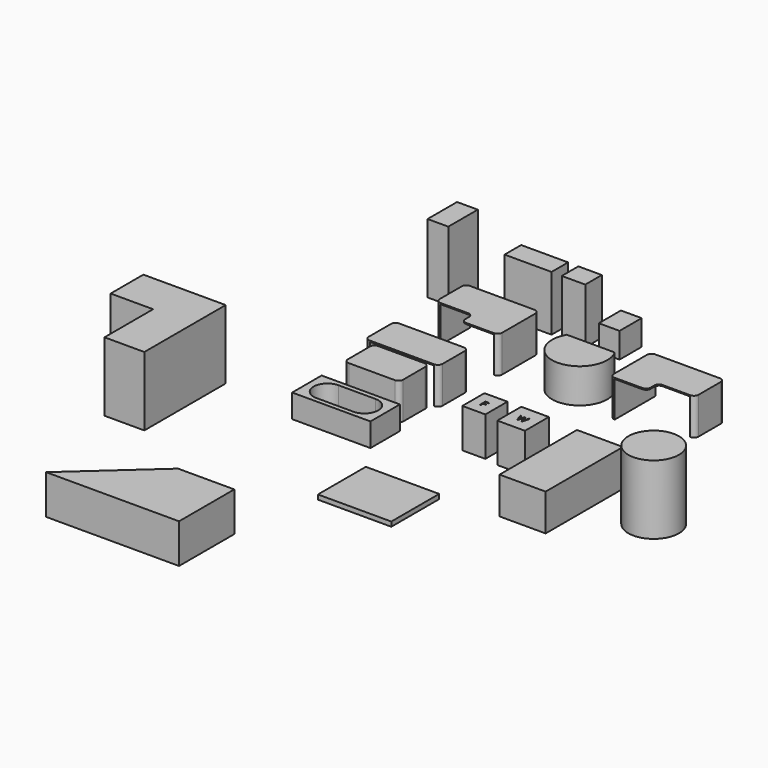
from build123d import *

# Parameters (mm, degrees)
F0_W      = 500
F0_H      = 600
F1_DEPTH  = 850
F2_W      = 600
F2_H      = 650
F3_DEPTH  = 850
F4_W      = 1000
F4_H      = 2100
F5_DEPTH  = 800
F6_R      = 550
F7_DEPTH  = 1500
F8_W      = 1700
F8_H      = 800
F9_DEPTH  = 510
F11_DEPTH = 855
F12_W     = 1593.5931801796
F12_H     = 1299.8950481415
F13_DEPTH = 100
F15_DEPTH = 800
F17_DEPTH = 800
F18_W     = 1020
F18_H     = 450
F19_DEPTH = 1200
F21_DEPTH = 750
F23_DEPTH = 800
F24_W     = 510
F24_H     = 450
F25_DEPTH = 1200
F26_W     = 450
F26_H     = 600
F27_DEPTH = 550
F28_W     = 1400
F28_H     = 800
F29_DEPTH = 775
F31_DEPTH = 775
F33_W     = 450
F33_H     = 800
F34_DEPTH = 1500
F36_DEPTH = 1500


with BuildPart() as f1:
    # F0 (on Top) → F1 (new body)
    with BuildSketch(Plane.XY):
        with Locations((250, -300)):
            Rectangle(F0_W, F0_H)
        Polygon((223.5717567124, -319.4969488541), (223.5717567124, -386.5047097206), (205.3530567533, -386.5047097206), (205.3530567533, -229.7415456657), (292.741058252, -229.7415456657), (292.741058252, -245.9359456293), (223.5717567124, -245.9359456293), (223.5717567124, -303.3025488904), (288.5552175835, -303.3025488904), (288.5552175835, -319.4969488541), align=None, mode=Mode.SUBTRACT)
    extrude(amount=F1_DEPTH)


with BuildPart() as f3:
    # F2 (on Top) → F3 (new body)
    with BuildSketch(Plane.XY):
        with Locations((1098.6456545318, -325)):
            Rectangle(F2_W, F2_H)
        with BuildLine():
            Line((1192.4111198944, -258.8157182715), (1150.7452339348, -414.6024882793))
            Line((1150.7452339348, -414.6024882793), (1132.8445873482, -414.6024882793))
            Line((1132.8445873482, -414.6024882793), (1101.4076422952, -310.3013875015))
            add(Edge.make_bspline(
                [(1101.4076422952, -310.3013875015), (1099.1572752957, -303.345707685), (1096.3954612509, -292.8098985511)],
                knots=[0, 0, 0, 1, 1, 1], degree=2))
            add(Edge.make_bspline(
                [(1096.3954612509, -292.8098985511), (1093.6336472061, -282.2740894173), (1093.5313577971, -280.1260118269)],
                knots=[0, 0, 0, 1, 1, 1], degree=2))
            add(Edge.make_bspline(
                [(1093.5313577971, -280.1260118269), (1091.1787013885, -294.2078538084), (1086.0642309352, -310.9151239559)],
                knots=[0, 0, 0, 1, 1, 1], degree=2))
            Line((1086.0642309352, -310.9151239559), (1055.5819870335, -414.6024882793))
            Line((1055.5819870335, -414.6024882793), (1037.6813404469, -414.6024882793))
            Line((1037.6813404469, -414.6024882793), (996.2200333054, -258.8157182715))
            Line((996.2200333054, -258.8157182715), (1015.4163457402, -258.8157182715))
            Line((1015.4163457402, -258.8157182715), (1040.0339968554, -355.0359557331))
            add(Edge.make_bspline(
                [(1040.0339968554, -355.0359557331), (1045.1484673087, -375.2892587282), (1047.5011237173, -391.6896606485)],
                knots=[0, 0, 0, 1, 1, 1], degree=2))
            add(Edge.make_bspline(
                [(1047.5011237173, -391.6896606485), (1050.3652271711, -372.1864799865), (1056.0252411394, -353.5357110668)],
                knots=[0, 0, 0, 1, 1, 1], degree=2))
            Line((1056.0252411394, -353.5357110668), (1083.9161533448, -258.8157182715))
            Line((1083.9161533448, -258.8157182715), (1103.1124657796, -258.8157182715))
            Line((1103.1124657796, -258.8157182715), (1132.4013332422, -354.388122809))
            add(Edge.make_bspline(
                [(1132.4013332422, -354.388122809), (1137.5158036956, -370.9249106081), (1141.0277400735, -391.6896606485)],
                knots=[0, 0, 0, 1, 1, 1], degree=2))
            add(Edge.make_bspline(
                [(1141.0277400735, -391.6896606485), (1143.0735282548, -376.5508281067), (1148.6994457535, -354.831376915)],
                knots=[0, 0, 0, 1, 1, 1], degree=2))
            Line((1148.6994457535, -354.831376915), (1173.2148074597, -258.8157182715))
            Line((1173.2148074597, -258.8157182715), (1192.4111198944, -258.8157182715))
        make_face(mode=Mode.SUBTRACT)
    extrude(amount=F3_DEPTH)


with BuildPart() as f5:
    # F4 (on Top) → F5 (new body)
    with BuildSketch(Plane.XY):
        with Locations((2508.6424085116, -1050)):
            Rectangle(F4_W, F4_H)
    extrude(amount=F5_DEPTH)


with BuildPart() as f7:
    # F6 (on Top) → F7 (new body)
    with BuildSketch(Plane.XY):
        with Locations((4221.7135429382, -682.8946471214)):
            Circle(F6_R)
    extrude(amount=F7_DEPTH)


with BuildPart() as f9:
    # F8 (on Top) → F9 (new body)
    with BuildSketch(Plane.XY):
        with Locations((-2119.7242736816, -1107.903816368)):
            Rectangle(F8_W, F8_H)
        with BuildLine():
            Line((-1719.3738222122, -1409.6125841141), (-2522.8707790375, -1409.6125841141))
            ThreePointArc((-2522.8707790375, -1409.6125841141), (-2822.8707790375, -1109.6125841141), (-2522.8707790375, -809.6125841141))
            Line((-2522.8707790375, -809.6125841141), (-1719.3738222122, -809.6125841141))
            ThreePointArc((-1719.3738222122, -809.6125841141), (-1419.3738222122, -1109.6125841141), (-1719.3738222122, -1409.6125841141))
        make_face(mode=Mode.SUBTRACT)
    extrude(amount=F9_DEPTH)


with BuildPart() as f11:
    # F10 (on Top) → F11 (new body)
    with BuildSketch(Plane.XY):
        Polygon((-2320.655877567, -5417.1743392944), (-3986.5746498108, -6917.1743392944), (-1098.9821112549, -6917.1743392944), (-1098.9821112549, -5417.1743392944), align=None)
    extrude(amount=F11_DEPTH)


with BuildPart() as f13:
    # F12 (on Top) → F13 (new body)
    with BuildSketch(Plane.XY):
        with Locations((15.0963366032, -2893.3526277542)):
            Rectangle(F12_W, F12_H)
    extrude(amount=F13_DEPTH)


with BuildPart() as f15:
    # F14 (on Top) → F15 (new body)
    with BuildSketch(Plane.XY):
        with BuildLine():
            Line((-1386.965637207, 1170.7768023014), (-2786.965637207, 1170.7768023014))
            ThreePointArc((-2786.965637207, 1170.7768023014), (-2857.6763153257, 1141.4874804201), (-2886.965637207, 1070.7768023014))
            Line((-2886.965637207, 1070.7768023014), (-2886.965637207, 470.7768023014))
            ThreePointArc((-2886.965637207, 470.7768023014), (-2857.6763153257, 400.0661241828), (-2786.965637207, 370.7768023014))
            Line((-2786.965637207, 370.7768023014), (-1386.965637207, 370.7768023014))
            ThreePointArc((-1386.965637207, 370.7768023014), (-1316.2549590884, 400.0661241828), (-1286.965637207, 470.7768023014))
            Line((-1286.965637207, 470.7768023014), (-1286.965637207, 1070.7768023014))
            ThreePointArc((-1286.965637207, 1070.7768023014), (-1316.2549590884, 1141.4874804201), (-1386.965637207, 1170.7768023014))
        make_face()
    extrude(amount=F15_DEPTH)

    # F28 (on face) → F29 (cut)
    with BuildSketch(Plane(origin=(0, 0, 0), x_dir=(1, 0, 0), z_dir=(0, 0, -1))):
        with Locations((-2086.965637207, -770.7768023014)):
            Rectangle(F28_W, F28_H)
        with Locations((-2086.965637207, -770.7768023014)):
            Rectangle(F28_W, F28_H)
    extrude(amount=-F29_DEPTH, mode=Mode.SUBTRACT)


with BuildPart() as f17:
    # F16 (on Top) → F17 (new body)
    with BuildSketch(Plane.XY):
        with BuildLine():
            Line((-1311.9828701019, 2996.9511508942), (-2711.9828701019, 2996.9511508942))
            ThreePointArc((-2711.9828701019, 2996.9511508942), (-2782.6935482206, 2967.6618290128), (-2811.9828701019, 2896.9511508942))
            Line((-2811.9828701019, 2896.9511508942), (-2811.9828701019, 2296.9511508942))
            ThreePointArc((-2811.9828701019, 2296.9511508942), (-2782.6935482206, 2226.2404727755), (-2711.9828701019, 2196.9511508942))
            Line((-2711.9828701019, 2196.9511508942), (-2111.9828701019, 2196.9511508942))
            ThreePointArc((-2111.9828701019, 2196.9511508942), (-2041.2721919833, 2167.6618290128), (-2011.9828701019, 2096.9511508942))
            Line((-2011.9828701019, 2096.9511508942), (-2011.9828701019, 1996.9511508942))
            ThreePointArc((-2011.9828701019, 1996.9511508942), (-1982.6935482206, 1926.2404727755), (-1911.9828701019, 1896.9511508942))
            Line((-1911.9828701019, 1896.9511508942), (-1311.9828701019, 1896.9511508942))
            ThreePointArc((-1311.9828701019, 1896.9511508942), (-1241.2721919833, 1926.2404727755), (-1211.9828701019, 1996.9511508942))
            Line((-1211.9828701019, 1996.9511508942), (-1211.9828701019, 2896.9511508942))
            ThreePointArc((-1211.9828701019, 2896.9511508942), (-1241.2721919833, 2967.6618290128), (-1311.9828701019, 2996.9511508942))
        make_face()
    extrude(amount=F17_DEPTH)

    # F30 (on face) → F31 (cut)
    with BuildSketch(Plane(origin=(0, 0, 0), x_dir=(1, 0, 0), z_dir=(0, 0, -1))):
        Polygon((-2711.9828701019, -1896.9511508942), (-2711.9828701019, -2196.9511508942), (-2711.9828701019, -2996.9511508942), (-1311.9828701019, -2996.9511508942), (-1311.9828701019, -1896.9511508942), align=None)
    extrude(amount=-F31_DEPTH, mode=Mode.SUBTRACT)


with BuildPart() as f19:
    # F18 (on Top) → F19 (new body)
    with BuildSketch(Plane.XY):
        with Locations((-1982.8592801094, 3887.4884605408)):
            Rectangle(F18_W, F18_H)
    extrude(amount=F19_DEPTH)


with BuildPart() as f21:
    # F20 (on Top) → F21 (new body)
    with BuildSketch(Plane.XY):
        with BuildLine():
            ThreePointArc((-369.9638340752, 2098.6518383026), (149.6514081955, 1798.6518383026), (669.2666504662, 2098.6518383026))
            Line((669.2666504662, 2098.6518383026), (-369.9638340752, 2098.6518383026))
        make_face()
        with BuildLine():
            ThreePointArc((669.2666504662, 2098.6518383026), (729.2069039689, 2243.3604112411), (749.6514081955, 2398.6518383026))
            ThreePointArc((749.6514081955, 2398.6518383026), (729.2069039689, 2553.9432653641), (669.2666504662, 2698.6518383026))
            Line((669.2666504662, 2698.6518383026), (-369.9638340752, 2698.6518383026))
            ThreePointArc((-369.9638340752, 2698.6518383026), (-450.3485918045, 2398.6518383026), (-369.9638340752, 2098.6518383026))
            Line((-369.9638340752, 2098.6518383026), (669.2666504662, 2098.6518383026))
        make_face()
    extrude(amount=F21_DEPTH)


with BuildPart() as f23:
    # F22 (on Top) → F23 (new body)
    with BuildSketch(Plane.XY):
        with BuildLine():
            Line((-1546.1797475815, 299.3462848663), (-2546.1797475815, 299.3462848663))
            ThreePointArc((-2546.1797475815, 299.3462848663), (-2616.8904257001, 270.056962985), (-2646.1797475815, 199.3462848663))
            Line((-2646.1797475815, 199.3462848663), (-2646.1797475815, -400.6537151337))
            ThreePointArc((-2646.1797475815, -400.6537151337), (-2616.8904257001, -471.3643932523), (-2546.1797475815, -500.6537151337))
            Line((-2546.1797475815, -500.6537151337), (-1546.1797475815, -500.6537151337))
            ThreePointArc((-1546.1797475815, -500.6537151337), (-1475.4690694628, -471.3643932523), (-1446.1797475815, -400.6537151337))
            Line((-1446.1797475815, -400.6537151337), (-1446.1797475815, 199.3462848663))
            ThreePointArc((-1446.1797475815, 199.3462848663), (-1475.4690694628, 270.056962985), (-1546.1797475815, 299.3462848663))
        make_face()
    extrude(amount=F23_DEPTH)


with BuildPart() as f25:
    # F24 (on Top) → F25 (new body)
    with BuildSketch(Plane.XY):
        with Locations((-991.2273931503, 3881.9004058838)):
            Rectangle(F24_W, F24_H)
    extrude(amount=F25_DEPTH)


with BuildPart() as f27:
    # F26 (on Top) → F27 (new body)
    with BuildSketch(Plane.XY):
        with Locations((-225, 3967.6189899445)):
            Rectangle(F26_W, F26_H)
    extrude(amount=F27_DEPTH)


with BuildPart() as f32_1:
    # F32: instance of F17
    add(f17.part.mirror(Plane.YZ))


with BuildPart() as f34:
    # F33 (on Top) → F34 (new body)
    with BuildSketch(Plane.XY):
        with Locations((-3744.0237045288, 3817.3877239227)):
            Rectangle(F33_W, F33_H)
    extrude(amount=F34_DEPTH)


with BuildPart() as f36:
    # F35 (on Top) → F36 (new body)
    with BuildSketch(Plane.XY):
        Polygon((-4668.6296169174, -1188.6452989578), (-6456.6296169174, -1188.6452989578), (-6456.6296169174, -2077.6452989578), (-5533.6296169174, -2077.6450608453), (-5533.6296169174, -3397.6452989578), (-4668.6296169174, -3397.6452989578), align=None)
    extrude(amount=F36_DEPTH)


solid = Compound([f1.part, f3.part, f5.part, f7.part, f9.part, f11.part, f13.part, f15.part, f17.part, f19.part, f21.part, f23.part, f25.part, f27.part, f32_1.part, f34.part, f36.part])
